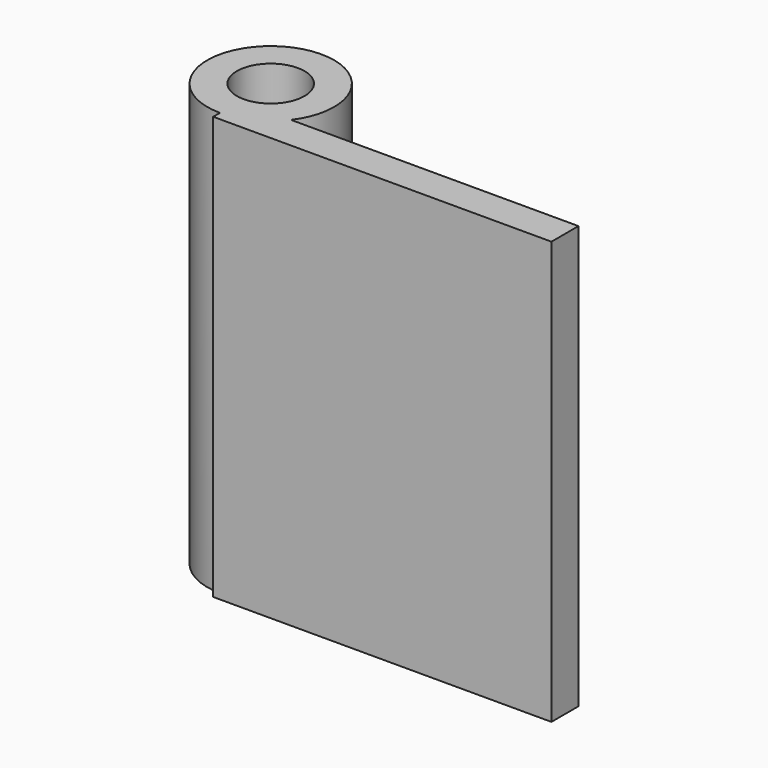
from build123d import *

# Parameters (mm, degrees)
F1_DEPTH = 1270
F2_R     = 101.6
F3_DEPTH = 1270.001
F4_DEPTH = 25.4


with BuildPart() as f1:
    # F0 (on Top) → F1 (new body)
    with BuildSketch(Plane.XY):
        with BuildLine():
            ThreePointArc((152.4, 76.2), (-85.1941899427, 360.8883798855), (0, 0))
            Line((0, 0), (1016, 0))
            Line((1016, 0), (1016, 76.2))
            Line((1016, 76.2), (152.4, 76.2))
        make_face()
    extrude(amount=F1_DEPTH)

    # F2 (on face) → F3 (cut, through all)
    with BuildSketch(Plane.XY.offset(1270)):
        with Locations((0, 190.5)):
            Circle(F2_R)
    extrude(amount=-F3_DEPTH, mode=Mode.SUBTRACT)

    # F4 (add): a face of the model
    f4_faces = [f1.faces().sort_by_distance(p)[0] for p in [
        (508, 0, 635),
    ]]
    extrude(f4_faces, amount=F4_DEPTH)


solid = f1.part
